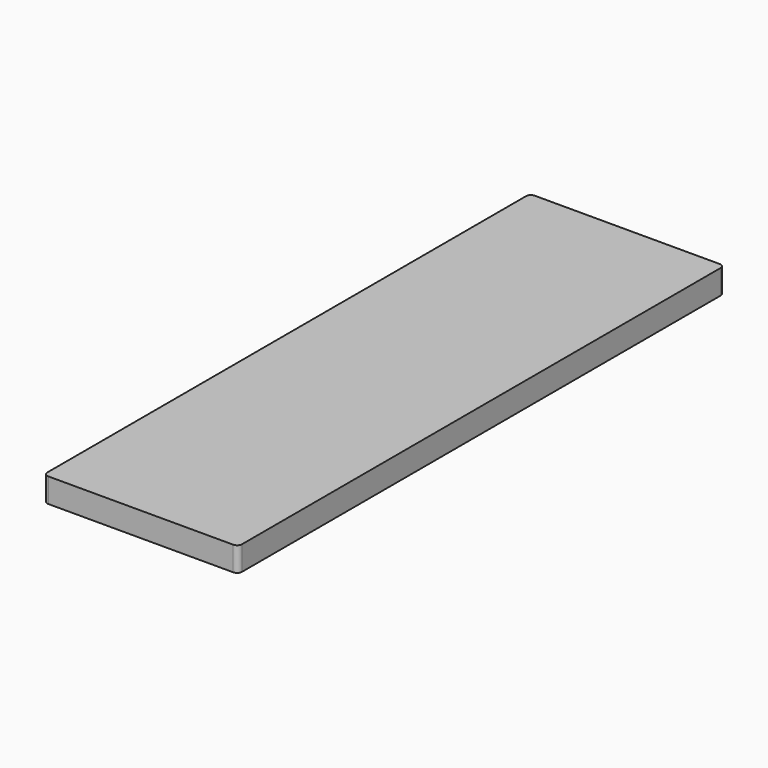
from build123d import *

# Parameters (mm, degrees)
F0_W     = 40
F0_H     = 125
F1_DEPTH = 5
F2_R     = 1
F3_SCALE = 0.5


with BuildPart() as f1:
    # F0 (on Top) → F1 (new body)
    with BuildSketch(Plane.XY):
        Rectangle(F0_W, F0_H)
    extrude(amount=-F1_DEPTH)

    # F2
    f2_edges = [f1.edges().sort_by_distance(p)[0] for p in [
        (-20, -62.5, -2.5),
        (-20, 62.5, -2.5),
        (20, -62.5, -2.5),
        (20, 62.5, -2.5),
    ]]
    fillet(f2_edges, radius=F2_R)


with BuildPart() as f1_1:
    # F3: moved
    add(f1.part.scale(F3_SCALE))


solid = f1_1.part
